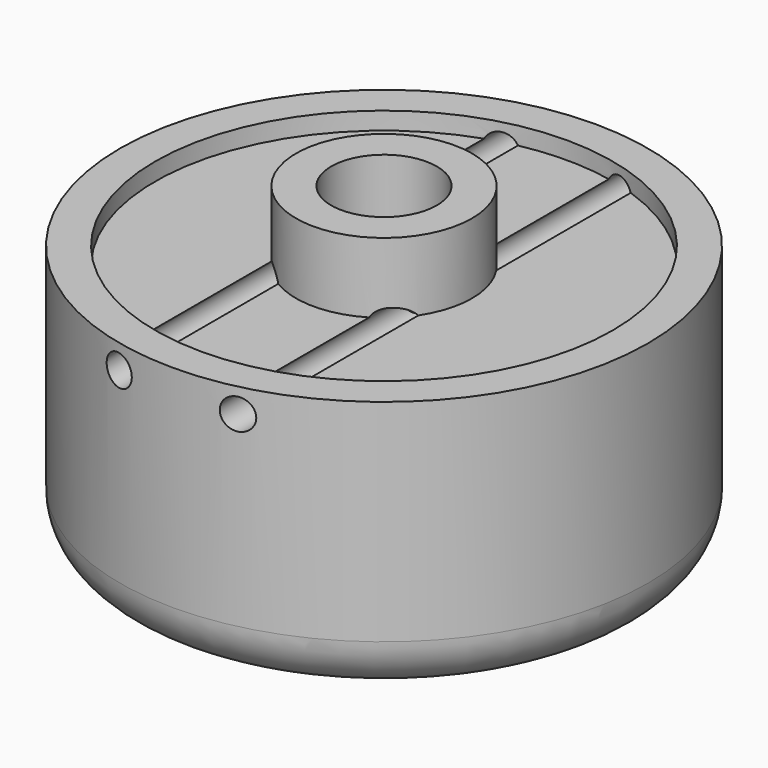
from build123d import *

# Parameters (mm, degrees)
F0_R           = 15
F1_DEPTH       = 15
F2_R           = 13
F3_DEPTH       = 1
F4_R           = 5
F5_DEPTH       = 4
F6_R           = 3
F7_DEPTH       = 13
F8_R           = 3
F9_R           = 0.875
F10_DEPTH      = 15.001
F10_DEPTH_BACK = 15.001


with BuildPart() as f1:
    # F0 (on Top) → F1 (new body)
    with BuildSketch(Plane.XY):
        Circle(F0_R)
    extrude(amount=F1_DEPTH)

    # F2 (on face) → F3 (cut)
    with BuildSketch(Plane.XY.offset(15)):
        Circle(F2_R)
    extrude(amount=-F3_DEPTH, mode=Mode.SUBTRACT)

    # F4 (on face) → F5 (join)
    with BuildSketch(Plane.XY.offset(14)):
        Circle(F4_R)
    extrude(amount=F5_DEPTH)

    # F6 (on face) → F7 (cut)
    with BuildSketch(Plane.XY.offset(18)):
        Circle(F6_R)
    extrude(amount=-F7_DEPTH, mode=Mode.SUBTRACT)

    # F8
    f8_edges = [f1.edges().sort_by_distance(p)[0] for p in [
        (-15, 0, 0),
    ]]
    fillet(f8_edges, radius=F8_R)

    # F9 (on Front) → F10 (cut, two sides)
    with BuildSketch(Plane.XZ) as f10_sk:
        with Locations((-3.375, 13.625)):
            Circle(F9_R)
        with Locations((3.375, 13.625)):
            Circle(F9_R)
    extrude(amount=-F10_DEPTH, mode=Mode.SUBTRACT)
    extrude(f10_sk.sketch, amount=F10_DEPTH_BACK, mode=Mode.SUBTRACT)


solid = f1.part
